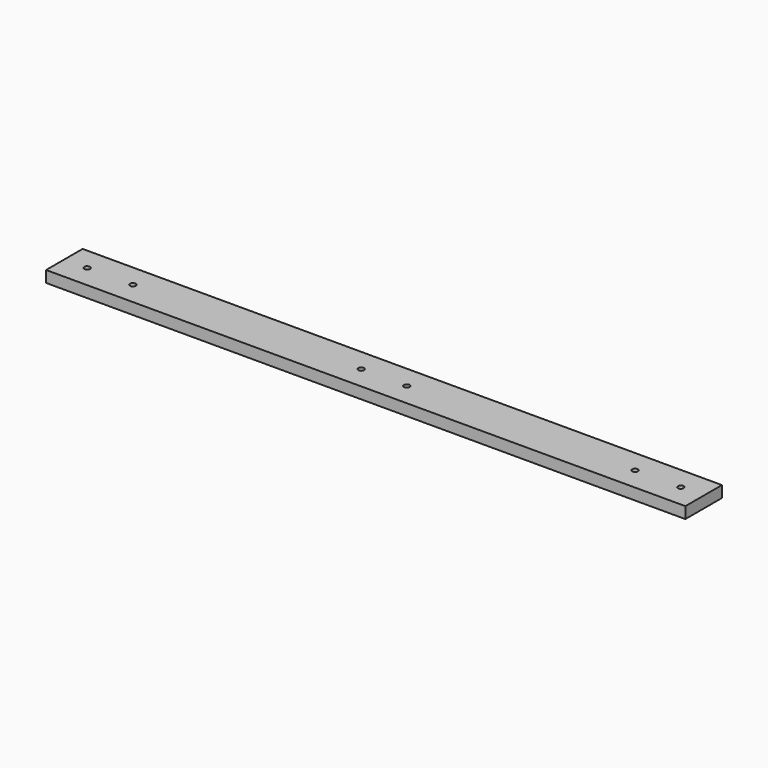
from build123d import *

# Parameters (mm, degrees)
F0_W     = 355.6
F0_H     = 25.4
F1_DEPTH = 6.35
F3_D     = 3.175
F5_D     = 3.175


with BuildPart() as f1:
    # F0 (on Top) → F1 (new body)
    with BuildSketch(Plane.XY):
        with Locations((177.8, 12.7)):
            Rectangle(F0_W, F0_H)
    extrude(amount=F1_DEPTH)

    # F3 (through all)
    with Locations(Plane.XY.offset(6.35)):
        with Locations((165.1, 12.7), (190.5, 12.7)):
            Hole(F3_D / 2)

    # F5 (through all)
    with Locations(Plane.XY.offset(6.35)):
        with Locations((12.7, 12.7), (342.9, 12.7), (38.1, 12.7), (317.5, 12.7)):
            Hole(F5_D / 2)


solid = f1.part
